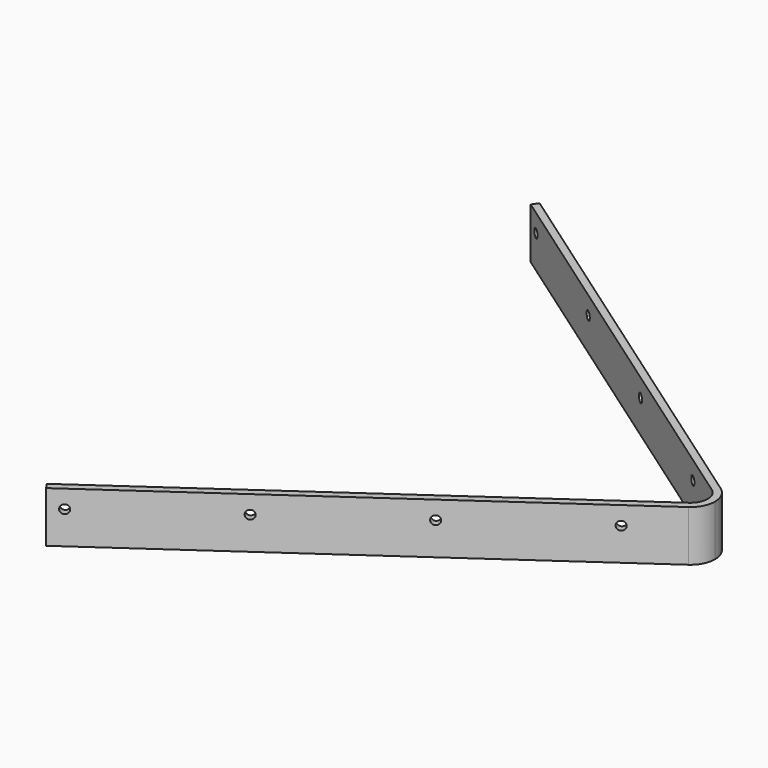
from build123d import *

# Parameters (mm, degrees)
PAD002_DEPTH           = 70
SKETCH006_R            = 6
POCKET002_DEPTH        = 30
SKETCH007_R            = 6
POCKET003_DEPTH        = 343.6422176588
LINEARPATTERN001_COUNT = 4
LINEARPATTERN001_PITCH = 200


with BuildPart() as part:
    # Sketch004 → Pad002 (new body)
    with BuildSketch(Plane.XY):
        with BuildLine():
            Line((-547.6857118143, 425), (19.5015988359, 27.8511695058))
            ThreePointArc((34, 0), (30.1583683281, 15.69945285), (19.5015988359, 27.8511695058))
            Line((24, 0), (34, 0))
            ThreePointArc((24, 0), (21.2882599963, 11.0819667176), (13.7658344724, 19.6596490629))
            Line((13.7658344724, 19.6596490629), (-553.4214761778, 416.8084795571))
            Line((-553.4214761778, 416.8084795571), (-547.6857118143, 425))
        make_face()
    extrude(amount=PAD002_DEPTH)

    # Sketch006 → Pocket002 (cut)
    with BuildSketch(Plane(origin=(0, 126.75, 0), x_dir=(-1, 0, 0), z_dir=(0, 1, 0))):
        with Locations((26.7405688034, 25.24131)):
            Circle(SKETCH006_R)
    extrude(amount=-POCKET002_DEPTH, mode=Mode.SUBTRACT)

    # Sketch007 (on Face2 of Pocket002) → Pocket003 (cut, through all)
    with BuildSketch(Plane(origin=(13.7658344724, 19.6596490629, 0), x_dir=(0.8191520443, -0.5735764364, 0), z_dir=(-0.5735764364, -0.8191520443, 0))):
        with Locations((-672.4078559097, 45)):
            Circle(SKETCH007_R)
    pocket003 = extrude(amount=-POCKET003_DEPTH, mode=Mode.SUBTRACT)

    # LinearPattern001: Pocket003 ×4
    with Locations(*[Vector(0.8191520443, -0.5735764364, 0) * (i * LINEARPATTERN001_PITCH) for i in range(1, LINEARPATTERN001_COUNT)]):
        add(pocket003, mode=Mode.SUBTRACT)

    # Mirrored001: part across XZ


with BuildPart() as part_1:
    add(part.part)
    add(part.part.mirror(Plane.XZ))


with BuildPart() as part_2:
    # Body001 placement: moved
    add(part_1.part.moved(Location((0, 0, -20))))


solid = part_2.part
